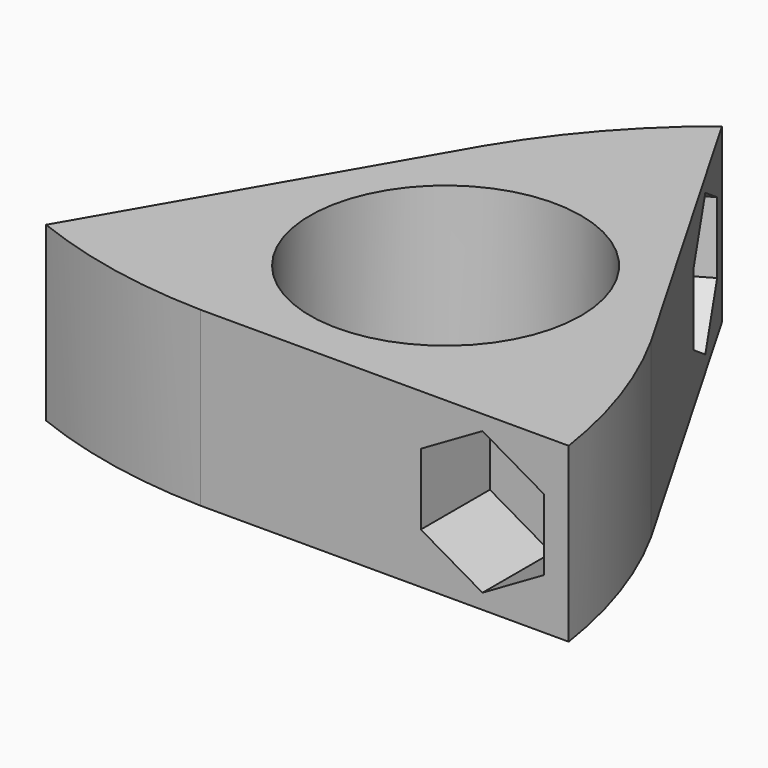
from build123d import *

# Parameters (mm, degrees)
F0_R     = 11
F1_DEPTH = 14
F3_DEPTH = 7
F5_DEPTH = 7
F7_DEPTH = 7


with BuildPart() as f1:
    # F0 (on Top) → F1 (new body)
    with BuildSketch(Plane.XY):
        with BuildLine():
            ThreePointArc((21.5405989438, -14.4337567297), (19.7489488314, -6.9989706734), (16.6666666667, 0))
            Line((16.6666666667, 0), (12.5, 7.2168783649))
            Line((12.5, 7.2168783649), (1.7297019, 25.8715818867))
            ThreePointArc((1.7297019, 25.8715818867), (-3.8131871995, 20.6025755779), (-8.3333333333, 14.4337567297))
            Line((-8.3333333333, 14.4337567297), (-12.5, 7.2168783649))
            Line((-12.5, 7.2168783649), (-23.2702981, -11.437825157))
            ThreePointArc((-23.2702981, -11.437825157), (-15.9357602341, -13.6036047731), (-8.3333333333, -14.4337567297))
            Line((-8.3333333333, -14.4337567297), (0, -14.4337567297))
            Line((0, -14.4337567297), (21.5405989438, -14.4337567297))
        make_face()
        Circle(F0_R, mode=Mode.SUBTRACT)
    extrude(amount=F1_DEPTH)

    # F2 (on face) → F3 (cut)
    with BuildSketch(Plane(origin=(12.5, 7.2168783649, 0), x_dir=(-0.5, 0.8660254038, 0), z_dir=(0.8660254038, 0.5, 0))):
        Polygon((19.5405962, 4.1867693368), (19.5405962, 9.9602720287), (14.5405962, 12.8470233746), (9.5405962, 9.9602720287), (9.5405962, 4.1867693368), (14.5405962, 1.3000179909), align=None)
    extrude(amount=-F3_DEPTH, mode=Mode.SUBTRACT)

    # F4 (on face) → F5 (cut)
    with BuildSketch(Plane.XZ.offset(14.4337567297)):
        Polygon((19.5405989438, 4.1132486541), (19.5405989438, 9.8867513459), (14.5405989438, 12.7735026919), (9.5405989438, 9.8867513459), (9.5405989438, 4.1132486541), (14.5405989438, 1.2264973081), align=None)
    extrude(amount=-F5_DEPTH, mode=Mode.SUBTRACT)

    # F6 (on face) → F7 (cut)
    with BuildSketch(Plane(origin=(-12.5, 7.2168783649, 0), x_dir=(-0.5, -0.8660254038, 0), z_dir=(-0.8660254038, 0.5, 0))):
        Polygon((19.5405962, 4.1132486541), (19.5405962, 9.8867513459), (14.5405962, 12.7735026919), (9.5405962, 9.8867513459), (9.5405962, 4.1132486541), (14.5405962, 1.2264973081), align=None)
    extrude(amount=-F7_DEPTH, mode=Mode.SUBTRACT)


solid = f1.part
